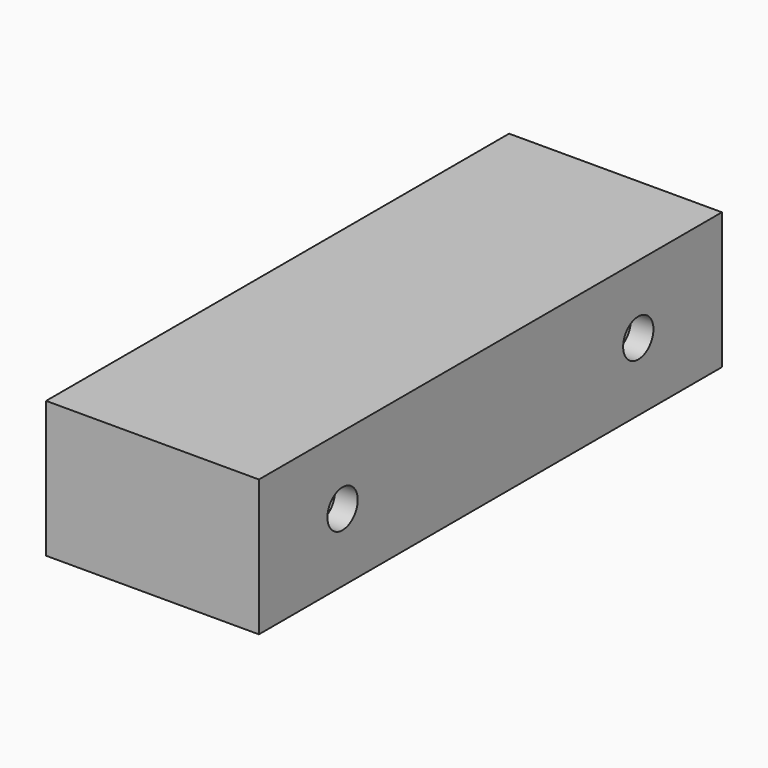
from build123d import *

# Parameters (mm, degrees)
F2_DEPTH = 12
F3_W     = 28.1
F3_H     = 76.4
F7_DEPTH = 3
F4_W     = 28.1
F4_H     = 76.4
F8_DEPTH = 3
F9_D     = 5
F10_D    = 5


with BuildPart() as f2:
    # F1 (on Top) → F2 (new body)
    with BuildSketch(Plane.XY):
        Polygon((-35.0215807557, 39.4811810493), (-63.1215807557, 39.4811810493), (-63.1215807557, 36.4811810493), (-56.2715807557, 36.4811810493), (-56.2715807557, 31.6811810493), (-38.0215807557, 31.6811810493), (-38.0215807557, 9.0811810493), (-56.2715807557, 9.0811810493), (-56.2715807557, 4.2811810493), (-63.1215807557, 4.2811810493), (-63.1215807557, -1.7188189507), (-56.2715807557, -1.7188189507), (-56.2715807557, -6.5188189507), (-38.0215807557, -6.5188189507), (-38.0215807557, -29.1188189507), (-56.2715807557, -29.1188189507), (-56.2715807557, -33.9188189507), (-63.1215807557, -33.9188189507), (-63.1215807557, -36.9188189507), (-35.0215807557, -36.9188189507), align=None)
    extrude(amount=F2_DEPTH)

    # F3 (on face) → F7 (join)
    with BuildSketch(Plane.XY.offset(12)):
        with Locations((-49.0715807557, 1.2811810493)):
            Rectangle(F3_W, F3_H)
    extrude(amount=F7_DEPTH)

    # F4 (on face) → F8 (join)
    with BuildSketch(Plane(origin=(0, 0, 0), x_dir=(1, 0, 0), z_dir=(0, 0, -1))):
        with Locations((-49.0715807557, -1.2811810493)):
            Rectangle(F4_W, F4_H)
    extrude(amount=F8_DEPTH)

    # F9 (through all)
    with Locations(Plane(origin=(-38.0215807557, 0, 0), x_dir=(0, -1, 0), z_dir=(-1, 0, 0))):
        with Locations((-25.6811810493, 6)):
            Hole(F9_D / 2)

    # F10 (through all)
    with Locations(Plane(origin=(-38.0215807557, 0, 0), x_dir=(0, -1, 0), z_dir=(-1, 0, 0))):
        with Locations((23.1188189507, 6)):
            Hole(F10_D / 2)


solid = f2.part
